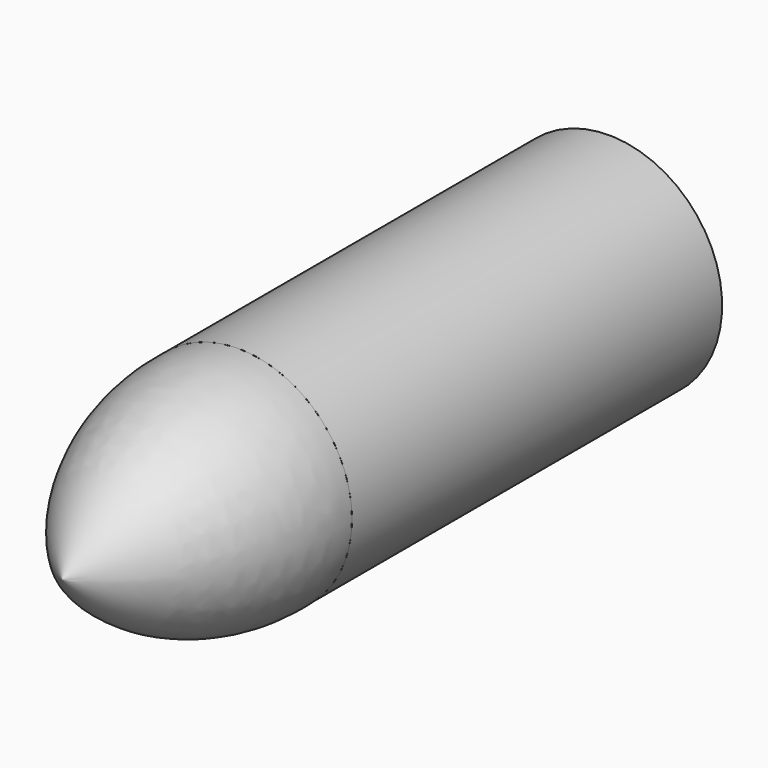
from build123d import *

# Parameters (mm, degrees)
F2_R     = 30.7952174917
F3_DEPTH = 125.7239431143


with BuildPart() as f1:
    # F0 (on Top) → F1 (revolve)
    with BuildSketch(Plane.XY):
        with BuildLine():
            Line((-4.0292805061, 37.7707562596), (-34.8244979978, 37.7707562596))
            Line((-34.8244979978, 37.7707562596), (-34.8244979978, -22.2292437404))
            ThreePointArc((-34.8244979978, -22.2292437404), (-11.4675362721, 3.6855894911), (-4.0292805061, 37.7707562596))
        make_face()
    revolve(axis=Axis((-34.8244979978, -2.0146407187, 0), (0, -1, 0)))


with BuildPart() as f3:
    # F2 (on face) → F3 (new body)
    with BuildSketch(Plane(origin=(0, 37.7707562596, 0), x_dir=(-1, 0, 0), z_dir=(0, 1, 0))):
        with Locations((34.8244979978, 0)):
            Circle(F2_R)
    extrude(amount=F3_DEPTH)


solid = Compound([f1.part, f3.part])
